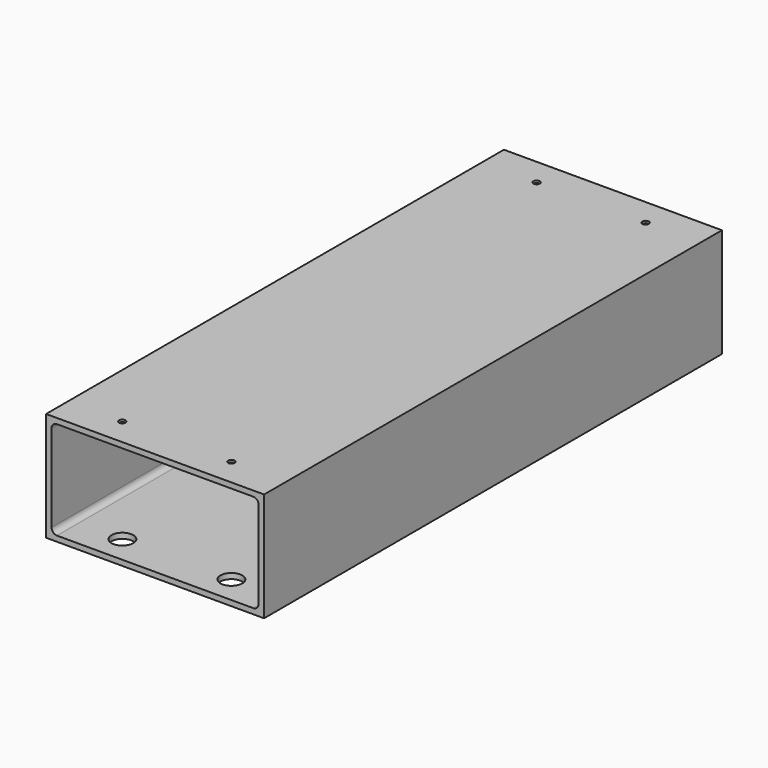
from build123d import *

# Parameters (mm, degrees)
F0_W     = 400
F0_H     = 200
F1_DEPTH = 525
F2_R     = 6
F3_DEPTH = 200.001
F4_R     = 20
F5_DEPTH = 25
F6_SIZE  = 6


with BuildPart() as f1:
    # F0 (on Front) → F1 (new body, symmetric)
    with BuildSketch(Plane.XZ):
        with Locations((60.4516596433, -100)):
            Rectangle(F0_W, F0_H)
        with BuildLine():
            ThreePointArc((-129.5483403567, -20), (-126.6194081686, -12.9289321881), (-119.5483403567, -10))
            Line((-119.5483403567, -10), (240.4516596433, -10))
            ThreePointArc((240.4516596433, -10), (247.5227274551, -12.9289321881), (250.4516596433, -20))
            Line((250.4516596433, -20), (250.4516596433, -180))
            ThreePointArc((250.4516596433, -180), (247.5227274551, -187.0710678119), (240.4516596433, -190))
            Line((240.4516596433, -190), (-119.5483403567, -190))
            ThreePointArc((-119.5483403567, -190), (-126.6194081686, -187.0710678119), (-129.5483403567, -180))
            Line((-129.5483403567, -180), (-129.5483403567, -20))
        make_face(mode=Mode.SUBTRACT)
    extrude(amount=F1_DEPTH, both=True)

    # F2 (on face) → F3 (cut, through all)
    with BuildSketch(Plane.XY):
        with Locations((-39.5483403567, -475)):
            Circle(F2_R)
        with Locations((160.4516596433, -475)):
            Circle(F2_R)
        with Locations((-39.5483403567, 475)):
            Circle(F2_R)
        with Locations((160.4516596433, 475)):
            Circle(F2_R)
    extrude(amount=-F3_DEPTH, mode=Mode.SUBTRACT)

    # F4 (on face) → F5 (cut)
    with BuildSketch(Plane(origin=(0, 0, -200), x_dir=(1, 0, 0), z_dir=(0, 0, -1))):
        with Locations((-39.5483403567, 475)):
            Circle(F4_R)
        with Locations((160.4516596433, 475)):
            Circle(F4_R)
        with Locations((-39.5483403567, -475)):
            Circle(F4_R)
        with Locations((160.4516596433, -475)):
            Circle(F4_R)
    extrude(amount=-F5_DEPTH, mode=Mode.SUBTRACT)

    # F6
    f6_edges = [f1.edges().sort_by_distance(p)[0] for p in [
        (-45.54834, -475, -10),
        (154.45166, -475, -10),
        (-45.54834, 475, -10),
        (154.45166, 475, -10),
    ]]
    chamfer(f6_edges, length=F6_SIZE)


solid = f1.part
